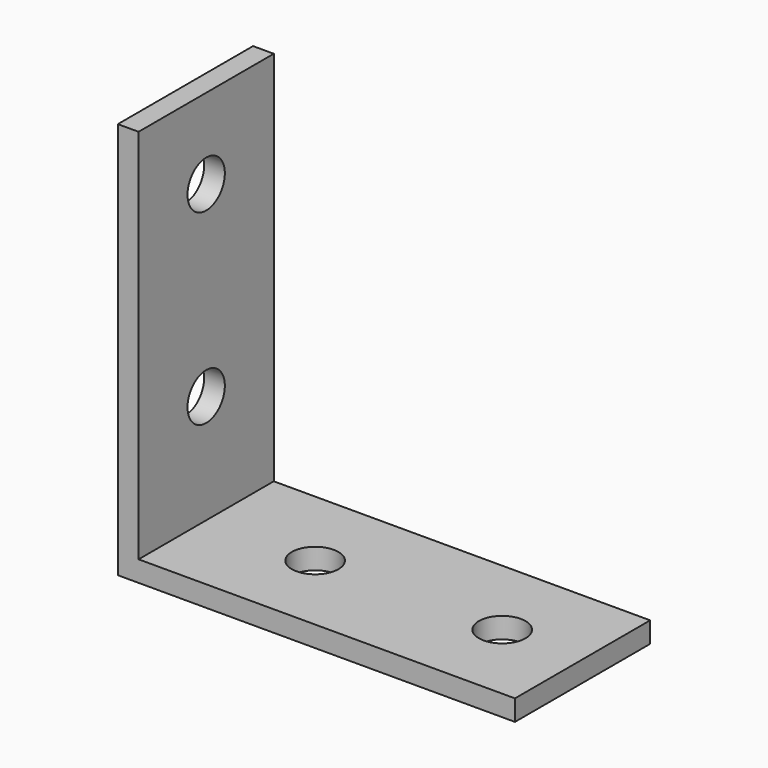
from build123d import *

# Parameters (mm, degrees)
F0_W     = 38.3
F0_H     = 16.3
F0_R     = 2.25
F1_DEPTH = 2
F2_W     = 16.3
F2_H     = 36.3
F2_R     = 2.25
F3_DEPTH = 2


with BuildPart() as f1:
    # F0 (on Top) → F1 (new body)
    with BuildSketch(Plane.XY):
        with Locations((-31.873504, 43.424231)):
            Rectangle(F0_W, F0_H)
        with Locations((-38.513504, 43.424231)):
            Circle(F0_R, mode=Mode.SUBTRACT)
        with Locations((-20.473504, 43.424231)):
            Circle(F0_R, mode=Mode.SUBTRACT)
    extrude(amount=F1_DEPTH)

    # F2 (on face) → F3 (join)
    with BuildSketch(Plane(origin=(-51.023504, 0, 0), x_dir=(0, -1, 0), z_dir=(-1, 0, 0))):
        with Locations((-43.424231, 20.15)):
            Rectangle(F2_W, F2_H)
        with Locations((-43.424231, 12.51)):
            Circle(F2_R, mode=Mode.SUBTRACT)
        with Locations((-43.424231, 30.55)):
            Circle(F2_R, mode=Mode.SUBTRACT)
    extrude(amount=-F3_DEPTH)


solid = f1.part
